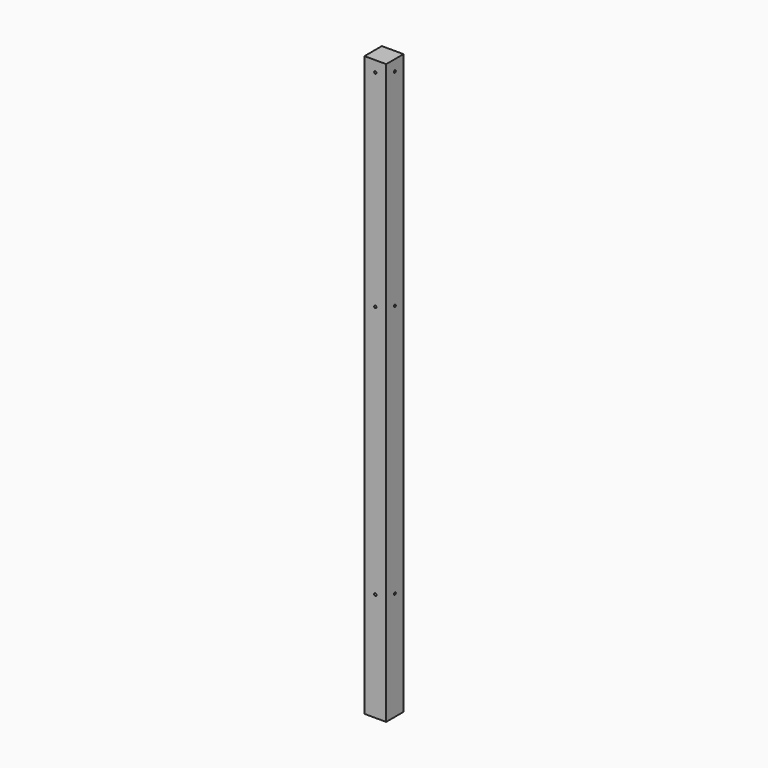
from build123d import *

# Parameters (mm, degrees)
F0_W     = 60
F0_H     = 60
F1_DEPTH = 1600
F3_D     = 6.6
F5_D     = 6.6


with BuildPart() as f1:
    # F0 (on Top) → F1 (new body)
    with BuildSketch(Plane.XY):
        Rectangle(F0_W, F0_H)
    extrude(amount=F1_DEPTH)

    # F3 (through all)
    with Locations(Plane(origin=(-30, 0, 0), x_dir=(0, -1, 0), z_dir=(-1, 0, 0))):
        with Locations((0, 1570), (0, 300), (0, 1000)):
            Hole(F3_D / 2)

    # F5 (through all)
    with Locations(Plane.XZ.offset(30)):
        with Locations((0, 1570), (0, 300), (0, 1000)):
            Hole(F5_D / 2)


solid = f1.part
